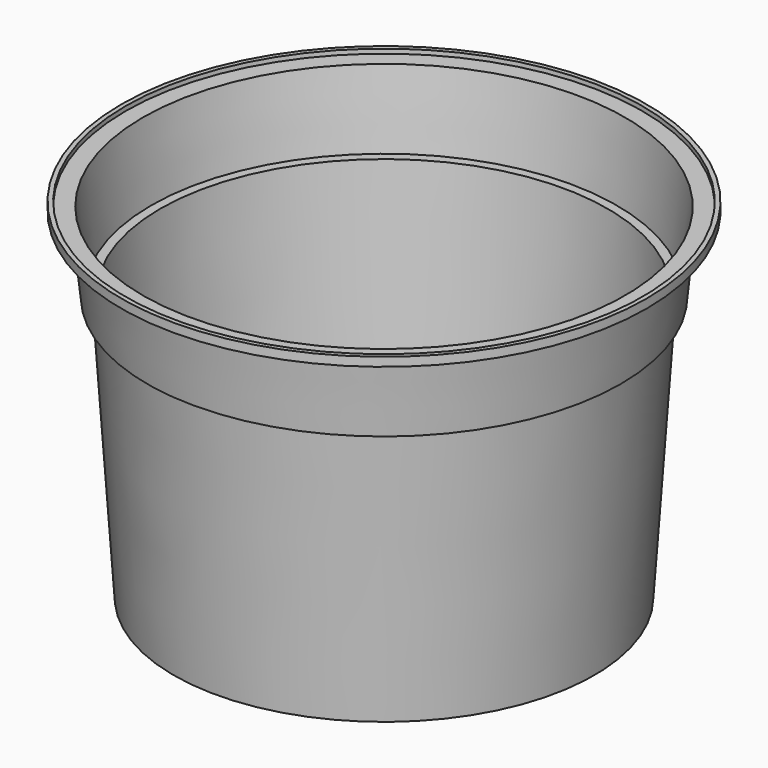
from build123d import *

# Parameters (mm, degrees)
F2_T = -25.4


with BuildPart() as f1:
    # F0 (on Front) → F1 (revolve)
    with BuildSketch(Plane.XZ):
        Polygon((-825.5, 25.4), (0, 25.4), (0, 2000.6373300045), (-1507.473047683, 2000.6373300045), (-1507.473047683, 1949.8373300045), (-1405.873047683, 1949.8373300045), (-1358.6750424939, 1520.6245758764), (-1307.8750424939, 1520.6245758764), (-1206.5, 0), (-825.5, 0), align=None)
    revolve(axis=Axis((0, 0, 1013.0186650022), (0, 0, -1)))

    # F2
    f2_openings = [f1.faces().sort_by_distance(p)[0] for p in [
        (0, 0, 2000.63733),
    ]]
    offset(amount=F2_T, openings=f2_openings, kind=Kind.INTERSECTION)


solid = f1.part
